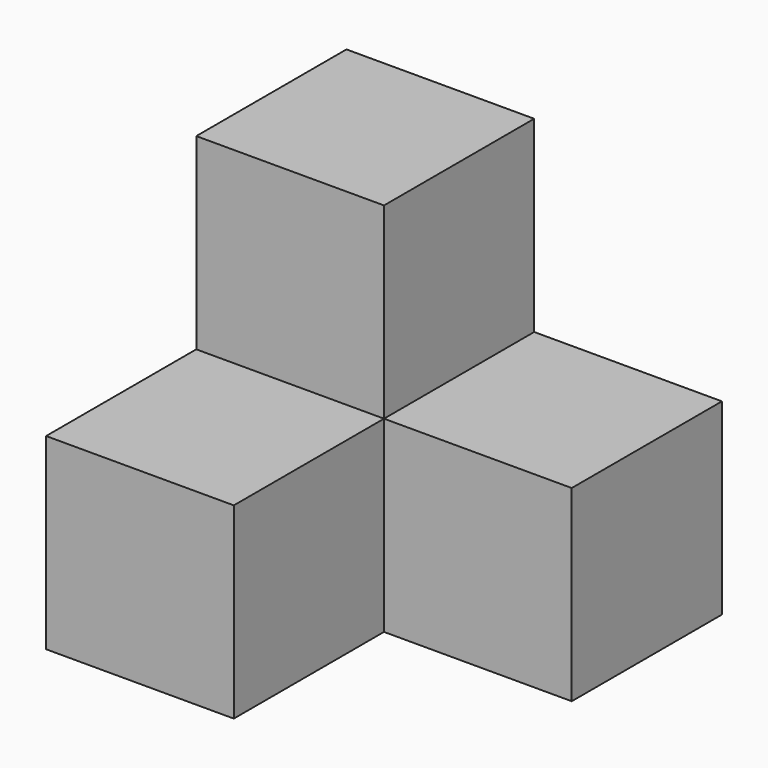
from build123d import *

# Parameters (mm, degrees)
F1_DEPTH = 25.4
F2_W     = 25.4
F2_H     = 25.4
F3_DEPTH = 25.4


with BuildPart() as f1:
    # F0 (on Top) → F1 (new body)
    with BuildSketch(Plane.XY):
        Polygon((0, -12.7), (25.4, -12.7), (25.4, 12.7), (-25.4, 12.7), (-25.4, -12.7), (-25.4, -38.1), (0, -38.1), align=None)
    extrude(amount=F1_DEPTH)

    # F2 (on face) → F3 (join)
    with BuildSketch(Plane.XY.offset(25.4)):
        with Locations((-12.7, 0)):
            Rectangle(F2_W, F2_H)
    extrude(amount=F3_DEPTH)


solid = f1.part
